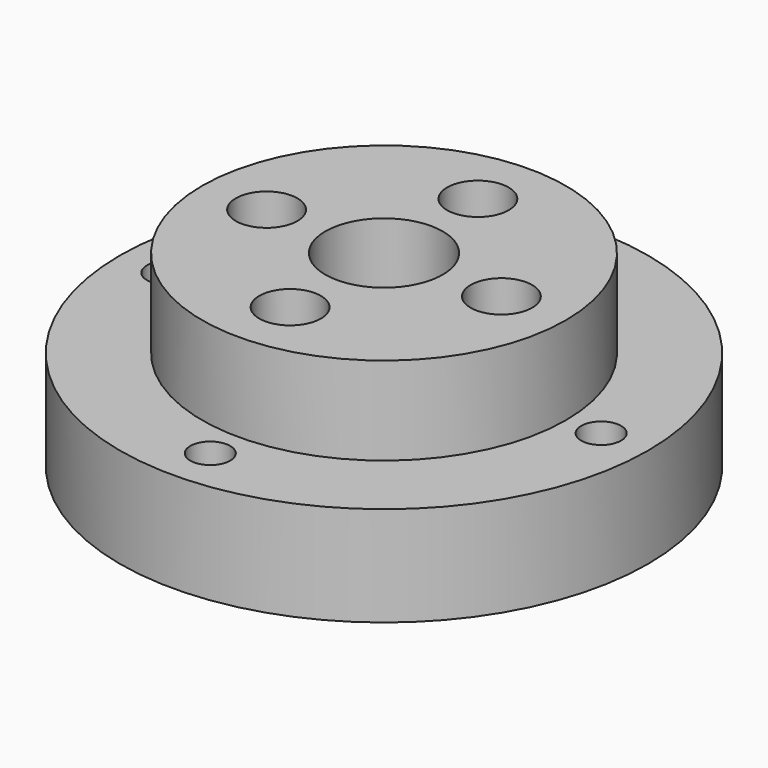
from build123d import *

# Parameters (mm, degrees)
F0_R     = 45
F1_DEPTH = 17
F2_R     = 31
F3_DEPTH = 15
F6_R     = 23.5
F7_DEPTH = 2
F9_D     = 18
F9_DEPTH = 13.5
F9_TIP   = 5.4077455712
F10_D    = 20
F11_D    = 10.5
F13_D    = 6.8


with BuildPart() as f1:
    # F0 (on Top) → F1 (new body)
    with BuildSketch(Plane.XY):
        Circle(F0_R)
    extrude(amount=F1_DEPTH)

    # F2 (on face) → F3 (join)
    with BuildSketch(Plane.XY.offset(17)):
        Circle(F2_R)
    extrude(amount=F3_DEPTH)

    # F6 (on face) → F7 (join)
    with BuildSketch(Plane(origin=(0, 0, 0), x_dir=(1, 0, 0), z_dir=(0, 0, -1))):
        Circle(F6_R)
    extrude(amount=F7_DEPTH)

    # F9
    with Locations(Plane(origin=(0, 0, -2), x_dir=(1, 0, 0), z_dir=(0, 0, -1))):
        with Locations((-20, 0), (0, 20), (20, 0), (0, -20)):
            Hole(F9_D / 2, depth=F9_DEPTH)
            with Locations((0, 0, -(F9_DEPTH + F9_TIP / 2))):  # 118° drill point
                Cone(0, F9_D / 2, F9_TIP, mode=Mode.SUBTRACT)

    # F10 (through all)
    with Locations(Plane.XY.offset(32)):
        with Locations((0, 0)):
            Hole(F10_D / 2)

    # F11 (through all)
    with Locations(Plane.XY.offset(32)):
        with Locations((-20, 0), (0, 20), (20, 0), (0, -20)):
            Hole(F11_D / 2)

    # F13 (through all)
    with Locations(Plane(origin=(0, 0, 0), x_dir=(1, 0, 0), z_dir=(0, 0, -1))):
        with Locations((0, 37), (-37, 0), (0, -37), (37, 0)):
            Hole(F13_D / 2)


solid = f1.part
